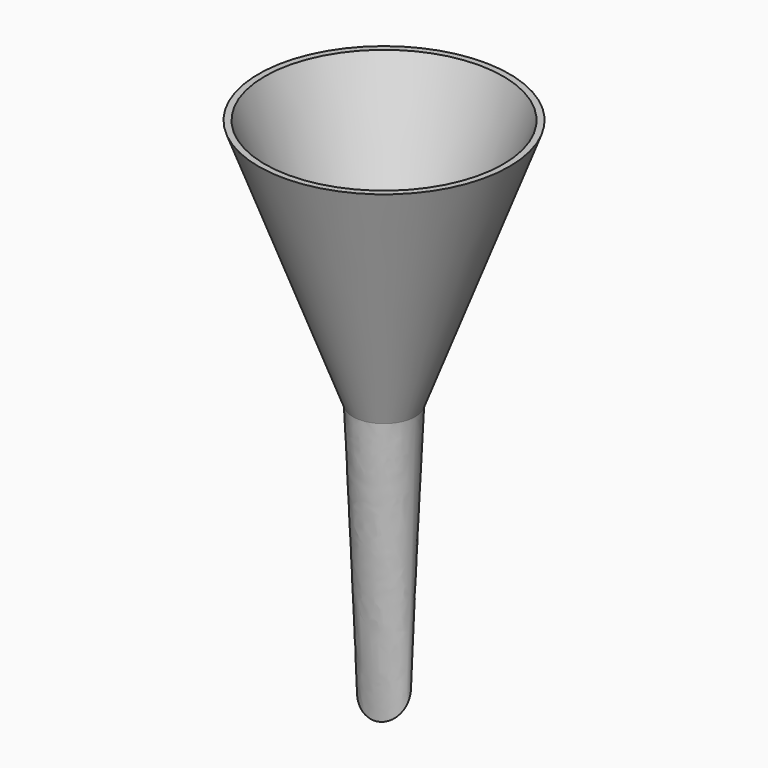
from build123d import *

# Parameters (mm, degrees)
SKETCH002_R = 1.500011
SKETCH003_R = 2.000005
SKETCH_R    = 2
SKETCH001_R = 2.5
SKETCH005_R = 9.500009
SKETCH004_R = 10


with BuildPart() as loft_body:
    # Sketch002 → Loft section 0
    with BuildSketch(Plane(origin=(0, 0, 0), x_dir=(1, 0, 0), z_dir=(0, -0.866025, 0.5))):
        Circle(SKETCH002_R)
    # Sketch003 → Loft section 1
    with BuildSketch(Plane.XY.offset(20)):
        Circle(SKETCH003_R)
    loft()


with BuildPart() as cut:
    # Sketch → Loft001 section 0
    with BuildSketch(Plane(origin=(0, 0, 0), x_dir=(1, 0, 0), z_dir=(0, -0.866025, 0.5))):
        Circle(SKETCH_R)
    # Sketch001 → Loft001 section 1
    with BuildSketch(Plane.XY.offset(20)):
        Circle(SKETCH001_R)
    loft()

    # Cut: cut Loft body
    add(loft_body.part, mode=Mode.SUBTRACT)


with BuildPart() as loft003:
    # Sketch005 → Loft003 section 0
    with BuildSketch(Plane.XY.offset(40)):
        Circle(SKETCH005_R)
    # Sketch003 → Loft003 section 1
    with BuildSketch(Plane.XY.offset(20)):
        Circle(SKETCH003_R)
    loft()


with BuildPart() as cut001:
    # Sketch004 → Loft002 section 0
    with BuildSketch(Plane.XY.offset(40)):
        Circle(SKETCH004_R)
    # Sketch001 → Loft002 section 1
    with BuildSketch(Plane.XY.offset(20)):
        Circle(SKETCH001_R)
    loft()

    # Cut001: cut Loft003
    add(loft003.part, mode=Mode.SUBTRACT)


solid = Compound([cut.part, cut001.part])
